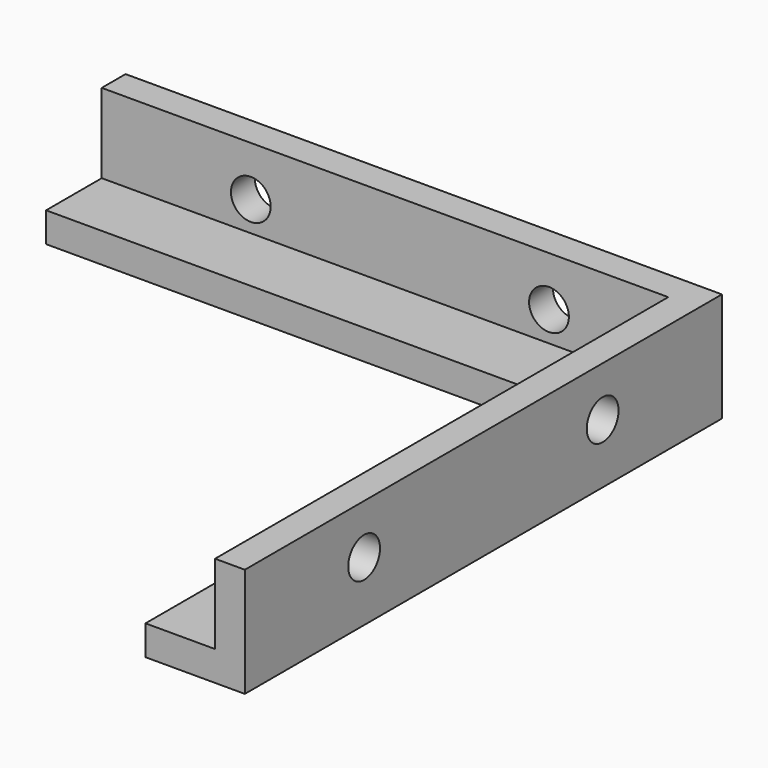
from build123d import *

# Parameters (mm, degrees)
F1_DEPTH = 3
F3_DEPTH = 8
F4_R     = 2
F5_DEPTH = 4
F6_R     = 2
F7_DEPTH = 6


with BuildPart() as f1:
    # F0 (on Top) → F1 (new body)
    with BuildSketch(Plane.XY):
        Polygon((0, 0), (-60, 0), (-60, -10), (-10, -10), (-10, -60), (0, -60), align=None)
    extrude(amount=F1_DEPTH)

    # F2 (on face) → F3 (join)
    with BuildSketch(Plane.XY.offset(3)):
        Polygon((0, 0), (-60, 0), (-60, -3), (-3, -3), (-3, -60), (0, -60), align=None)
    extrude(amount=F3_DEPTH)

    # F4 (on face) → F5 (cut)
    with BuildSketch(Plane.YZ):
        with Locations((-15, 6)):
            Circle(F4_R)
        with Locations((-45, 6)):
            Circle(F4_R)
    extrude(amount=-F5_DEPTH, mode=Mode.SUBTRACT)

    # F6 (on face) → F7 (cut)
    with BuildSketch(Plane(origin=(0, 0, 0), x_dir=(-1, 0, 0), z_dir=(0, 1, 0))):
        with Locations((45, 6)):
            Circle(F6_R)
        with Locations((15, 6)):
            Circle(F6_R)
    extrude(amount=-F7_DEPTH, mode=Mode.SUBTRACT)


solid = f1.part
